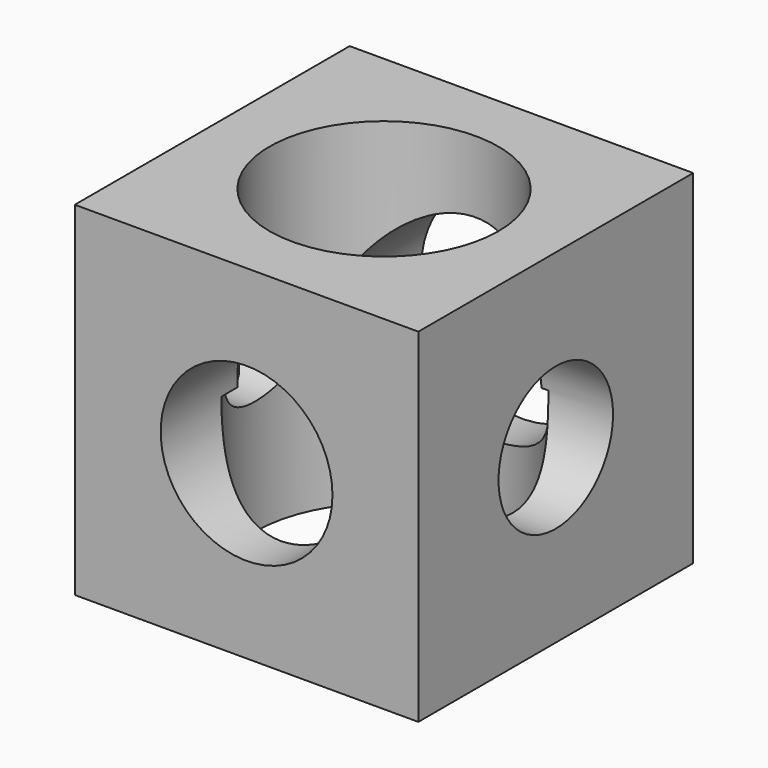
from build123d import *

# Parameters (mm, degrees)
F0_W      = 76.2
F0_H      = 76.2
F0_R      = 19.05
F1_DEPTH  = 76.2
F2_R      = 12.7
F3_DEPTH  = 76.2
F4_R      = 25.4
F5_DEPTH  = 76.2
F6_R      = 22.225
F6_R_2    = 19.05
F7_DEPTH  = 38.1
F8_R      = 28.575
F9_DEPTH  = 38.1
F10_R     = 15.875
F11_DEPTH = 38.1


with BuildPart() as f1:
    # F0 (on Front) → F1 (new body)
    with BuildSketch(Plane.XZ):
        Rectangle(F0_W, F0_H)
        Circle(F0_R, mode=Mode.SUBTRACT)
    extrude(amount=F1_DEPTH)

    # F2 (on face) → F3 (cut)
    with BuildSketch(Plane.YZ.offset(38.1)):
        with Locations((-38.1, 0)):
            Circle(F2_R)
    extrude(amount=-F3_DEPTH, mode=Mode.SUBTRACT)

    # F4 (on face) → F5 (cut)
    with BuildSketch(Plane(origin=(0, 0, -38.1), x_dir=(1, 0, 0), z_dir=(0, 0, -1))):
        with Locations((0, 38.1)):
            Circle(F4_R)
    extrude(amount=-F5_DEPTH, mode=Mode.SUBTRACT)

    # F6 (on face) → F7 (cut)
    with BuildSketch(Plane(origin=(0, 0, 0), x_dir=(-1, 0, 0), z_dir=(0, 1, 0))):
        Circle(F6_R)
        Circle(F6_R_2, mode=Mode.SUBTRACT)
    extrude(amount=-F7_DEPTH, mode=Mode.SUBTRACT)

    # F8 (on face) → F9 (cut)
    with BuildSketch(Plane(origin=(0, 0, -38.1), x_dir=(1, 0, 0), z_dir=(0, 0, -1))):
        with Locations((0, 38.1)):
            Circle(F8_R)
    extrude(amount=-F9_DEPTH, mode=Mode.SUBTRACT)

    # F10 (on face) → F11 (cut)
    with BuildSketch(Plane.YZ.offset(38.1)):
        with Locations((-38.1, 0)):
            Circle(F10_R)
    extrude(amount=-F11_DEPTH, mode=Mode.SUBTRACT)


solid = f1.part
